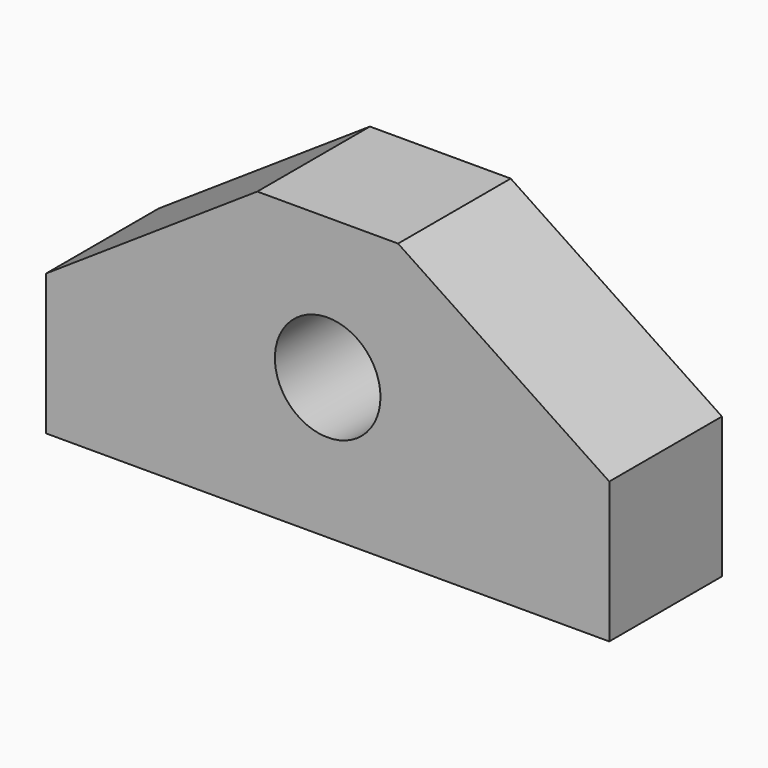
from build123d import *

# Parameters (mm, degrees)
F0_R     = 4.7625
F1_DEPTH = 12.7


with BuildPart() as f1:
    # F0 (on Front) → F1 (new body)
    with BuildSketch(Plane.XZ):
        Polygon((-38.722962, -10.984917), (-38.722962, -23.684917), (12.077038, -23.684917), (12.077038, -10.984917), (-6.972962, -10.984917), (-6.972962, 1.715083), (-19.672962, 1.715083), (-19.672962, -10.984917), align=None)
        with Locations((-13.322962, -10.984917)):
            Circle(F0_R, mode=Mode.SUBTRACT)
        Polygon((-19.672962, 1.715083), (-38.722962, -10.984917), (-19.672962, -10.984917), align=None)
        Polygon((-6.972962, -10.984917), (12.077038, -10.984917), (-6.972962, 1.715083), align=None)
    extrude(amount=F1_DEPTH)


solid = f1.part
